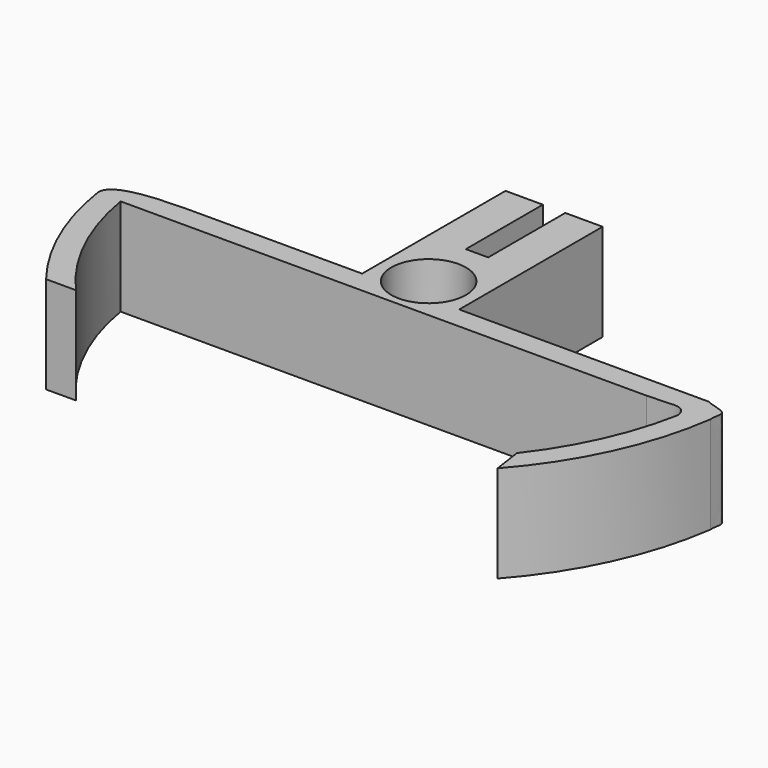
from build123d import *

# Parameters (mm, degrees)
F0_W     = 13
F0_H     = 24
F2_DEPTH = 13
F1_R     = 5
F3_DEPTH = 13
F5_DEPTH = 12.9


with BuildPart() as f2:
    # F0 (on Top) → F2 (new body)
    with BuildSketch(Plane.XY):
        with BuildLine():
            Line((-6.5, -3), (-7.526748348, -3))
            Line((-7.526748348, -3), (-10.0215210102, -3))
            add(Edge.make_bspline(
                [(-39.5474398666, -6), (-39.987434644, -3.0998888332), (-28.0679892003, -2.9708801078), (-24.4776253005, -3.0066990198), (-20.0953720274, -2.997292433), (-10.1037282836, -3), (-10.0215210102, -3)],
                knots=[0, 0, 0, 0, 0.3086092965, 0.5067485278, 0.7164039889, 1, 1, 1, 1], degree=3))
            ThreePointArc((-39.5474398666, -6), (-36.7341364511, -15.8304522737), (-31.5204301443, -24.626459013))
            Line((-31.5204301443, -24.626459013), (-27.5204301443, -24.626459013))
            ThreePointArc((-27.5204301443, -24.626459013), (-33.3084695829, -15.9493702976), (-36.4394917479, -6))
            Line((-36.4394917479, -6), (-6.5, -6))
            Line((-6.5, -6), (-6.5, -3))
        make_face()
        with Locations((0, 9)):
            Rectangle(F0_W, F0_H)
        with BuildLine():
            Line((39.8873413504, -3), (7, -3))
            Line((7, -3), (7, -6))
            Line((7, -6), (33.9890345931, -6))
            add(Edge.make_bspline(
                [(33.9890345931, -6), (35.9057441659, -6.0144707178), (38.6138753682, -5.3537128715), (39.2142802148, -6.7852190746), (39.3019308294, -7.4403113564)],
                knots=[0, 0, 0, 0, 0.6204731295, 1, 1, 1, 1], degree=3))
            ThreePointArc((39.3019308294, -7.4403113564), (36.4388888592, -16.4987083952), (31.5204301443, -24.626459013))
            Line((31.5204301443, -24.626459013), (32.0954321629, -28.5686519366))
            ThreePointArc((32.0954321629, -28.5686519366), (38.990070515, -18.057104985), (42.5474398666, -6))
            add(Edge.make_bspline(
                [(39.8873413504, -3), (40.6612767941, -3.3893066613), (43.3643490326, -3.7338272559), (42.4692446307, -5.1334802328), (42.5474398666, -6)],
                knots=[0, 0, 0, 0, 0.5508525768, 1, 1, 1, 1], degree=3))
        make_face()
        Polygon((6.5, -3), (-6.5, -3), (-6.5, -6), (7, -6), (7, -3), align=None)
    extrude(amount=F2_DEPTH)

    # F1 (on Top) → F3 (cut, through all)
    with BuildSketch(Plane.XY):
        Circle(F1_R)
    extrude(amount=F3_DEPTH, mode=Mode.SUBTRACT)

    # F4 (on face) → F5 (cut)
    with BuildSketch(Plane(origin=(0, 21, 0), x_dir=(-1, 0, 0), z_dir=(0, 1, 0))):
        with BuildLine():
            ThreePointArc((-1.5, 10.4764934301), (-2.4173849507, 3.0044671365), (4.25, 6.5))
            ThreePointArc((4.25, 6.5), (3.4955328635, 8.9173849507), (1.5, 10.4764934301))
            ThreePointArc((1.5, 10.4764934301), (0, 10.75), (-1.5, 10.4764934301))
        make_face()
        with BuildLine():
            ThreePointArc((-1.5, 10.4764934301), (0, 10.75), (1.5, 10.4764934301))
            Line((1.5, 10.4764934301), (1.5, 13))
            Line((1.5, 13), (-1.5, 13))
            Line((-1.5, 13), (-1.5, 10.4764934301))
        make_face()
    extrude(amount=-F5_DEPTH, mode=Mode.SUBTRACT)


solid = f2.part
